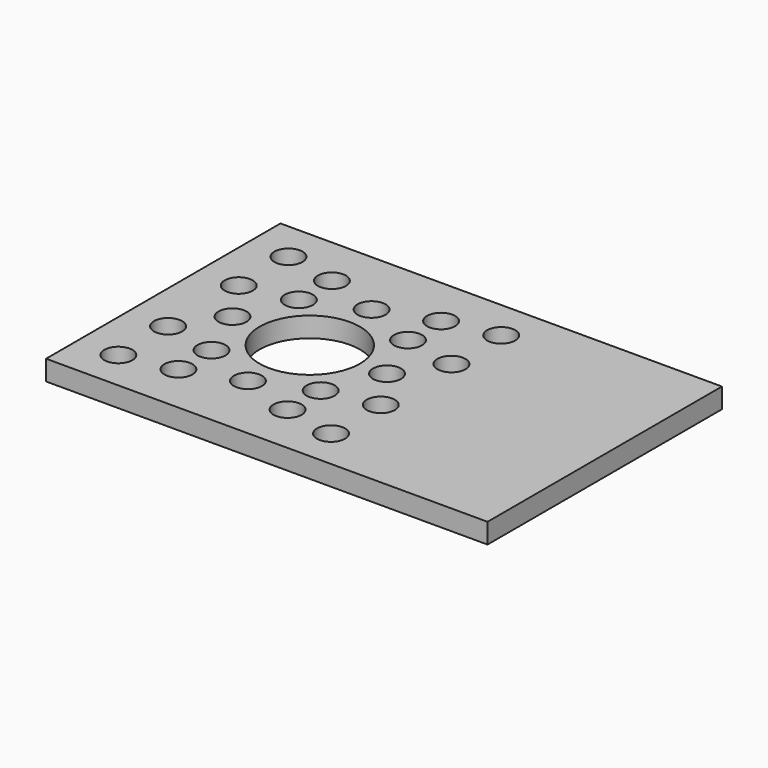
from build123d import *

# Parameters (mm, degrees)
F0_W     = 55.88
F0_H     = 37.084
F0_R     = 1.778
F0_R_2   = 6.35
F1_DEPTH = 2.54


with BuildPart() as f1:
    # F0 (on Top) → F1 (new body)
    with BuildSketch(Plane.XY):
        with Locations((27.94, 18.542)):
            Rectangle(F0_W, F0_H)
        with Locations((5.08, 5.08)):
            Circle(F0_R, mode=Mode.SUBTRACT)
        with Locations((11.6332, 6.4008)):
            Circle(F0_R, mode=Mode.SUBTRACT)
        with Locations((18.542, 8.763)):
            Circle(F0_R, mode=Mode.SUBTRACT)
        with Locations((25.4508, 6.4008)):
            Circle(F0_R, mode=Mode.SUBTRACT)
        with Locations((5.08, 12.954)):
            Circle(F0_R, mode=Mode.SUBTRACT)
        with Locations((11.6332, 11.6332)):
            Circle(F0_R, mode=Mode.SUBTRACT)
        with Locations((25.4508, 11.6332)):
            Circle(F0_R, mode=Mode.SUBTRACT)
        with Locations((32.004, 5.08)):
            Circle(F0_R, mode=Mode.SUBTRACT)
        with Locations((32.004, 12.954)):
            Circle(F0_R, mode=Mode.SUBTRACT)
        with Locations((8.763, 18.542)):
            Circle(F0_R, mode=Mode.SUBTRACT)
        with Locations((5.08, 24.13)):
            Circle(F0_R, mode=Mode.SUBTRACT)
        with Locations((11.6332, 25.4508)):
            Circle(F0_R, mode=Mode.SUBTRACT)
        with Locations((18.542, 18.542)):
            Circle(F0_R_2, mode=Mode.SUBTRACT)
        with Locations((25.4508, 25.4508)):
            Circle(F0_R, mode=Mode.SUBTRACT)
        with Locations((5.08, 32.004)):
            Circle(F0_R, mode=Mode.SUBTRACT)
        with Locations((11.6332, 30.6832)):
            Circle(F0_R, mode=Mode.SUBTRACT)
        with Locations((18.542, 28.321)):
            Circle(F0_R, mode=Mode.SUBTRACT)
        with Locations((25.4508, 30.6832)):
            Circle(F0_R, mode=Mode.SUBTRACT)
        with Locations((28.321, 18.542)):
            Circle(F0_R, mode=Mode.SUBTRACT)
        with Locations((32.004, 24.13)):
            Circle(F0_R, mode=Mode.SUBTRACT)
        with Locations((32.004, 32.004)):
            Circle(F0_R, mode=Mode.SUBTRACT)
    extrude(amount=F1_DEPTH)


solid = f1.part
